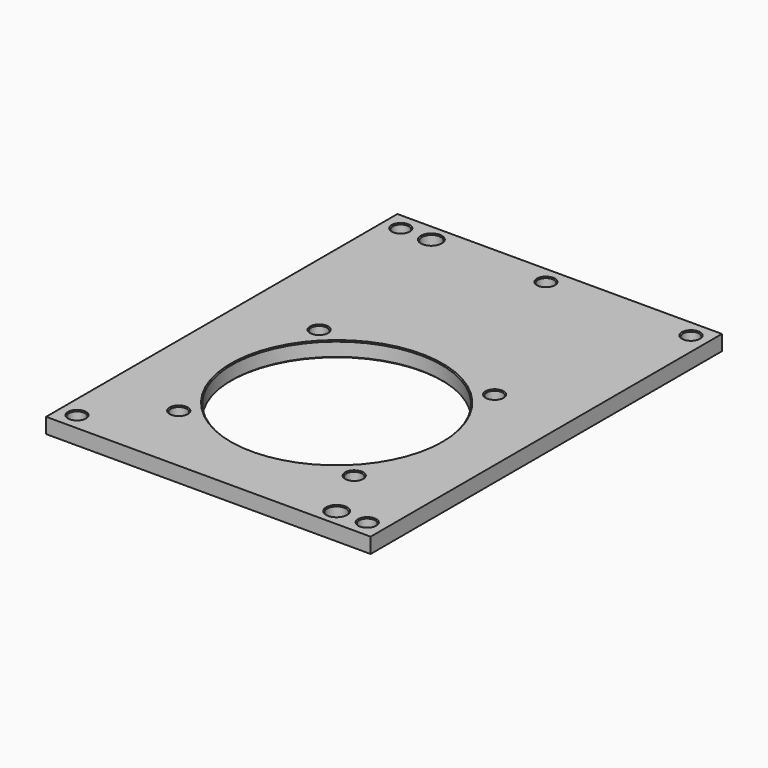
from build123d import *

# Parameters (mm, degrees)
F0_W     = 170
F0_H     = 230
F0_R     = 4.25
F0_R_2   = 5
F0_R_3   = 55
F1_DEPTH = 8
F2_SIZE  = 0.5


with BuildPart() as f1:
    # F0 (on Top) → F1 (new body)
    with BuildSketch(Plane.XY):
        with Locations((0, 31)):
            Rectangle(F0_W, F0_H)
        with Locations((-76, -75)):
            Circle(F0_R, mode=Mode.SUBTRACT)
        with Locations((-45.961941, -45.961941)):
            Circle(F0_R, mode=Mode.SUBTRACT)
        with Locations((60, -75)):
            Circle(F0_R_2, mode=Mode.SUBTRACT)
        with Locations((76, -75)):
            Circle(F0_R, mode=Mode.SUBTRACT)
        with Locations((45.961941, -45.961941)):
            Circle(F0_R, mode=Mode.SUBTRACT)
        Circle(F0_R_3, mode=Mode.SUBTRACT)
        with Locations((-45.961941, 45.961941)):
            Circle(F0_R, mode=Mode.SUBTRACT)
        with Locations((-76, 137)):
            Circle(F0_R, mode=Mode.SUBTRACT)
        with Locations((-60, 137)):
            Circle(F0_R_2, mode=Mode.SUBTRACT)
        with Locations((45.961941, 45.961941)):
            Circle(F0_R, mode=Mode.SUBTRACT)
        with Locations((0, 137)):
            Circle(F0_R, mode=Mode.SUBTRACT)
        with Locations((76, 137)):
            Circle(F0_R, mode=Mode.SUBTRACT)
    extrude(amount=F1_DEPTH)

    # F2
    f2_edges = [f1.edges().sort_by_distance(p)[0] for p in [
        (-71.75, -75, 4),
        (-80.25, -75, 0),
        (-80.25, -75, 8),
        (-41.711941, -45.961941, 4),
        (-50.211941, -45.961941, 0),
        (-50.211941, -45.961941, 8),
        (65, -75, 4),
        (55, -75, 0),
        (55, -75, 8),
        (50.211941, -45.961941, 4),
        (41.711941, -45.961941, 0),
        (41.711941, -45.961941, 8),
        (50.211941, 45.961941, 4),
        (41.711941, 45.961941, 0),
        (41.711941, 45.961941, 8),
        (-41.711941, 45.961941, 4),
        (-50.211941, 45.961941, 0),
        (-50.211941, 45.961941, 8),
        (55, 0, 4),
        (-55, 0, 0),
        (-55, 0, 8),
        (80.25, -75, 4),
        (71.75, -75, 0),
        (71.75, -75, 8),
        (80.25, 137, 4),
        (71.75, 137, 0),
        (71.75, 137, 8),
        (-55, 137, 4),
        (-65, 137, 0),
        (-65, 137, 8),
        (-71.75, 137, 4),
        (-80.25, 137, 0),
        (-80.25, 137, 8),
        (4.25, 137, 4),
        (-4.25, 137, 0),
        (-4.25, 137, 8),
    ]]
    chamfer(f2_edges, length=F2_SIZE)


solid = f1.part
